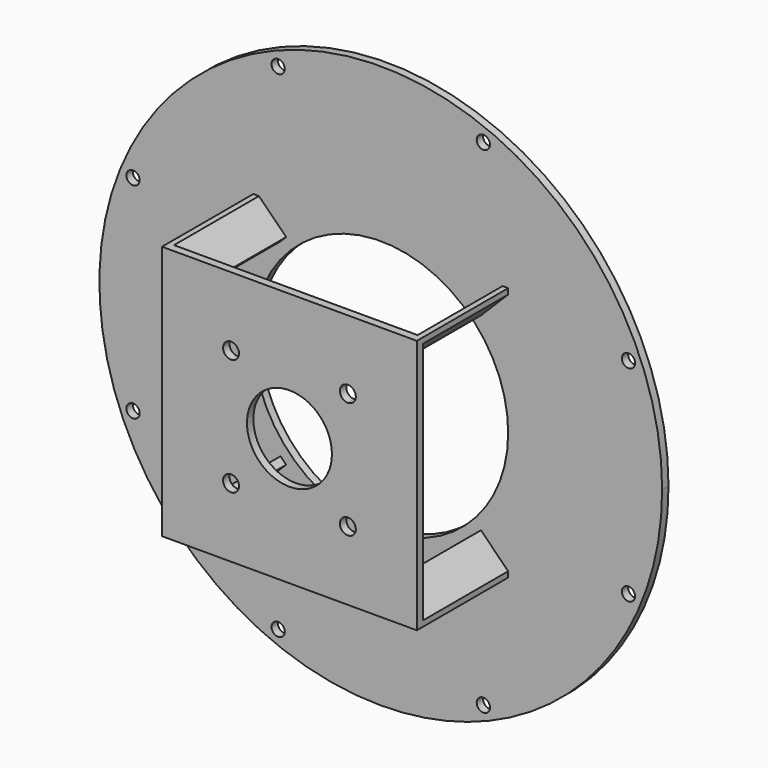
from build123d import *

# Parameters (mm, degrees)
F0_R     = 3.96875
F1_DEPTH = 4.7625
F3_DEPTH = 63.5
F4_R     = 4.7625
F4_R_2   = 25.4
F5_DEPTH = 4.7625


with BuildPart() as f1:
    # F0 (on Front) → F1 (new body)
    with BuildSketch(Plane.XZ):
        with BuildLine():
            ThreePointArc((168.275, 0), (-118.988394, 118.988394), (0, -168.275))
            ThreePointArc((0, -168.275), (32.828824, -165.041643), (64.396055, -155.465828))
            ThreePointArc((64.396055, -155.465828), (139.915549, -93.488581), (168.275, 0))
        make_face()
        with Locations((-61.363365, -148.144268)):
            Circle(F0_R, mode=Mode.SUBTRACT)
        with Locations((-148.144268, -61.363365)):
            Circle(F0_R, mode=Mode.SUBTRACT)
        with BuildLine():
            ThreePointArc((65.332115, -148.144268), (64.66326, -150.349187), (62.88214, -151.810915))
            ThreePointArc((62.88214, -151.810915), (58.06347, -145.939348), (65.332115, -148.144268))
        make_face(mode=Mode.SUBTRACT)
        with Locations((148.144268, -61.363365)):
            Circle(F0_R, mode=Mode.SUBTRACT)
        with Locations((-148.144268, 61.363365)):
            Circle(F0_R, mode=Mode.SUBTRACT)
        with Locations((-61.363365, 148.144268)):
            Circle(F0_R, mode=Mode.SUBTRACT)
        with BuildLine():
            ThreePointArc((152.4, 0), (107.763073, -107.763073), (0, -152.4))
            ThreePointArc((0, -152.4), (-107.763073, 107.763073), (152.4, 0))
        make_face(mode=Mode.SUBTRACT)
        with Locations((148.144268, 61.363365)):
            Circle(F0_R, mode=Mode.SUBTRACT)
        with Locations((61.363365, 148.144268)):
            Circle(F0_R, mode=Mode.SUBTRACT)
        with BuildLine():
            ThreePointArc((152.4, 0), (-107.763073, 107.763073), (0, -152.4))
            ThreePointArc((0, -152.4), (107.763073, -107.763073), (152.4, 0))
        make_face()
        with BuildLine():
            ThreePointArc((0, -76.2), (-53.881537, 53.881537), (76.2, 0))
            ThreePointArc((76.2, 0), (53.881537, -53.881537), (0, -76.2))
        make_face(mode=Mode.SUBTRACT)
    extrude(amount=F1_DEPTH)

    # F2 (on face) → F3 (join)
    with BuildSketch(Plane.XZ.offset(4.7625)):
        Polygon((-56.55569, 59.923286), (-72.832404, 76.2), (-76.2, 76.2), (-76.2, 72.832404), (-59.923286, 56.55569), (-58.239488, 58.239488), align=None)
        Polygon((59.923286, 56.55569), (76.2, 72.832404), (76.2, 76.2), (72.832404, 76.2), (56.55569, 59.923286), (58.239488, 58.239488), align=None)
        Polygon((76.2, -76.2), (76.2, -72.832404), (59.923286, -56.55569), (58.239488, -58.239488), (56.55569, -59.923286), (72.832404, -76.2), align=None)
        Polygon((-76.2, -76.2), (-72.832404, -76.2), (-56.55569, -59.923286), (-58.239488, -58.239488), (-59.923286, -56.55569), (-76.2, -72.832404), align=None)
    extrude(amount=F3_DEPTH)

    # F4 (on face) → F5 (join)
    with BuildSketch(Plane.XZ.offset(68.2625)):
        Polygon((-72.832404, 76.2), (-76.2, 76.2), (-76.2, -76.2), (76.2, -76.2), (76.2, 76.2), align=None)
        with Locations((-34.925, -34.925)):
            Circle(F4_R, mode=Mode.SUBTRACT)
        with Locations((34.925, -34.925)):
            Circle(F4_R, mode=Mode.SUBTRACT)
        with Locations((-34.925, 34.925)):
            Circle(F4_R, mode=Mode.SUBTRACT)
        Circle(F4_R_2, mode=Mode.SUBTRACT)
        with BuildLine():
            ThreePointArc((39.6875, 34.925), (38.292596, 31.557404), (34.925, 30.1625))
            ThreePointArc((34.925, 30.1625), (31.557404, 38.292596), (39.6875, 34.925))
        make_face(mode=Mode.SUBTRACT)
        Polygon((-72.832404, 76.2), (-76.2, 76.2), (-76.2, -76.2), (76.2, -76.2), (76.2, 76.2), align=None)
        with Locations((-34.925, -34.925)):
            Circle(F4_R, mode=Mode.SUBTRACT)
        with Locations((34.925, -34.925)):
            Circle(F4_R, mode=Mode.SUBTRACT)
        with Locations((-34.925, 34.925)):
            Circle(F4_R, mode=Mode.SUBTRACT)
        Circle(F4_R_2, mode=Mode.SUBTRACT)
        with BuildLine():
            ThreePointArc((39.6875, 34.925), (38.292596, 31.557404), (34.925, 30.1625))
            ThreePointArc((34.925, 30.1625), (31.557404, 38.292596), (39.6875, 34.925))
        make_face(mode=Mode.SUBTRACT)
    extrude(amount=F5_DEPTH)


solid = f1.part
